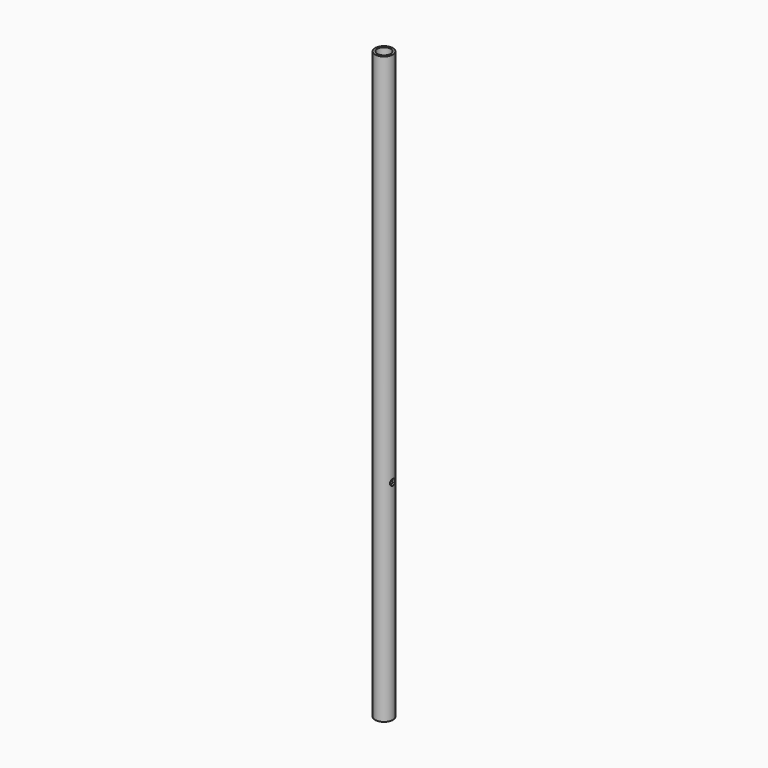
from build123d import *

# Parameters (mm, degrees)
F0_R     = 10.795
F0_R_2   = 8.255
F1_DEPTH = 711.2
F2_R     = 3.81
F3_DEPTH = 12.7


with BuildPart() as f1:
    # F0 (on Top) → F1 (new body)
    with BuildSketch(Plane.XY):
        Circle(F0_R)
        Circle(F0_R_2, mode=Mode.SUBTRACT)
    extrude(amount=F1_DEPTH)

    # F2 (on Right) → F3 (cut, symmetric)
    with BuildSketch(Plane.YZ):
        with Locations((0, 254)):
            Circle(F2_R)
    extrude(amount=F3_DEPTH, both=True, mode=Mode.SUBTRACT)


solid = f1.part
